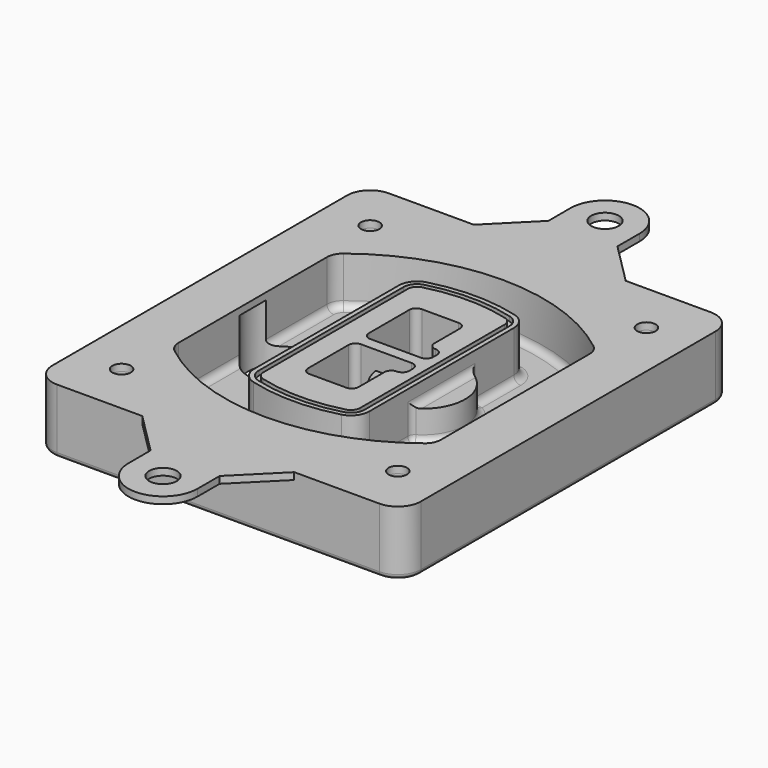
from build123d import *

# Parameters (mm, degrees)
F0_R      = 4
F1_DEPTH  = 25
F2_DEPTH  = 3
F3_DEPTH  = 18
F5_DEPTH  = 21
F6_DEPTH  = 2
F8_DEPTH  = 20
F9_DEPTH  = 16
F10_DEPTH = 25
F7_R      = 6
F7_R_2    = 4
F11_DEPTH = 6
F13_DEPTH = 9
F14_R     = 3
F15_R     = 2
F16_R     = 6
F16_R_2   = 4
F17_DEPTH = 3


with BuildPart() as f1:
    # F0 (on Top) → F1 (new body)
    with BuildSketch(Plane.XY):
        with BuildLine():
            ThreePointArc((-80, -80), (-77.0710678119, -87.0710678119), (-70, -90))
            Line((-70, -90), (70, -90))
            ThreePointArc((70, -90), (77.0710678119, -87.0710678119), (80, -80))
            Line((80, -80), (80, 80))
            ThreePointArc((80, 80), (77.0710678119, 87.0710678119), (70, 90))
            Line((70, 90), (-70, 90))
            ThreePointArc((-70, 90), (-77.0710678119, 87.0710678119), (-80, 80))
            Line((-80, 80), (-80, -80))
        make_face()
        with Locations((-60, -67.5)):
            Circle(F0_R, mode=Mode.SUBTRACT)
        with Locations((60, -67.5)):
            Circle(F0_R, mode=Mode.SUBTRACT)
        with Locations((-60, 67.5)):
            Circle(F0_R, mode=Mode.SUBTRACT)
        with BuildLine():
            ThreePointArc((-64, 40.2934422872), (-62.5820384798, 46.4328484224), (-58.6153846154, 51.3286200352))
            ThreePointArc((-58.6153846154, 51.3286200352), (0, 71.5), (58.6153846154, 51.3286200352))
            ThreePointArc((58.6153846154, 51.3286200352), (62.5820384798, 46.4328484224), (64, 40.2934422872))
            Line((64, 40.2934422872), (64, -40.2934422872))
            ThreePointArc((64, -40.2934422872), (62.5820384798, -46.4328484224), (58.6153846154, -51.3286200352))
            ThreePointArc((58.6153846154, -51.3286200352), (0, -71.5), (-58.6153846154, -51.3286200352))
            ThreePointArc((-58.6153846154, -51.3286200352), (-62.5820384798, -46.4328484224), (-64, -40.2934422872))
            Line((-64, -40.2934422872), (-64, 40.2934422872))
        make_face(mode=Mode.SUBTRACT)
        with Locations((60, 67.5)):
            Circle(F0_R, mode=Mode.SUBTRACT)
        with BuildLine():
            ThreePointArc((58.6153846154, 51.3286200352), (0, 71.5), (-58.6153846154, 51.3286200352))
            ThreePointArc((-58.6153846154, 51.3286200352), (-62.5820384798, 46.4328484224), (-64, 40.2934422872))
            Line((-64, 40.2934422872), (-64, -40.2934422872))
            ThreePointArc((-64, -40.2934422872), (-62.5820384798, -46.4328484224), (-58.6153846154, -51.3286200352))
            ThreePointArc((-58.6153846154, -51.3286200352), (0, -71.5), (58.6153846154, -51.3286200352))
            ThreePointArc((58.6153846154, -51.3286200352), (62.5820384798, -46.4328484224), (64, -40.2934422872))
            Line((64, -40.2934422872), (64, 40.2934422872))
            ThreePointArc((64, 40.2934422872), (62.5820384798, 46.4328484224), (58.6153846154, 51.3286200352))
        make_face()
        with BuildLine():
            Line((-60, -40.2934422872), (-60, 40.2934422872))
            ThreePointArc((-60, 40.2934422872), (-58.9871703427, 44.6787323838), (-56.1538461538, 48.1757121072))
            ThreePointArc((-56.1538461538, 48.1757121072), (0, 67.5), (56.1538461538, 48.1757121072))
            ThreePointArc((56.1538461538, 48.1757121072), (58.9871703427, 44.6787323838), (60, 40.2934422872))
            Line((60, 40.2934422872), (60, -40.2934422872))
            ThreePointArc((60, -40.2934422872), (58.9871703427, -44.6787323838), (56.1538461538, -48.1757121072))
            ThreePointArc((56.1538461538, -48.1757121072), (0, -67.5), (-56.1538461538, -48.1757121072))
            ThreePointArc((-56.1538461538, -48.1757121072), (-58.9871703427, -44.6787323838), (-60, -40.2934422872))
        make_face(mode=Mode.SUBTRACT)
        with BuildLine():
            ThreePointArc((-56.1538461538, 48.1757121072), (-58.9871703427, 44.6787323838), (-60, 40.2934422872))
            Line((-60, 40.2934422872), (-60, -40.2934422872))
            ThreePointArc((-60, -40.2934422872), (-58.9871703427, -44.6787323838), (-56.1538461538, -48.1757121072))
            ThreePointArc((-56.1538461538, -48.1757121072), (0, -67.5), (56.1538461538, -48.1757121072))
            ThreePointArc((56.1538461538, -48.1757121072), (58.9871703427, -44.6787323838), (60, -40.2934422872))
            Line((60, -40.2934422872), (60, 40.2934422872))
            ThreePointArc((60, 40.2934422872), (58.9871703427, 44.6787323838), (56.1538461538, 48.1757121072))
            ThreePointArc((56.1538461538, 48.1757121072), (0, 67.5), (-56.1538461538, 48.1757121072))
        make_face()
        with BuildLine():
            ThreePointArc((54.3076923077, 45.8110311612), (56.2910192399, 43.3631453548), (57, 40.2934422872))
            Line((57, 40.2934422872), (57, -40.2934422872))
            ThreePointArc((57, -40.2934422872), (56.2910192399, -43.3631453548), (54.3076923077, -45.8110311612))
            ThreePointArc((54.3076923077, -45.8110311612), (0, -64.5), (-54.3076923077, -45.8110311612))
            ThreePointArc((-54.3076923077, -45.8110311612), (-56.2910192399, -43.3631453548), (-57, -40.2934422872))
            Line((-57, -40.2934422872), (-57, 40.2934422872))
            ThreePointArc((-57, 40.2934422872), (-56.2910192399, 43.3631453548), (-54.3076923077, 45.8110311612))
            ThreePointArc((-54.3076923077, 45.8110311612), (0, 64.5), (54.3076923077, 45.8110311612))
        make_face(mode=Mode.SUBTRACT)
        with BuildLine():
            Line((57, -40.2934422872), (57, 40.2934422872))
            ThreePointArc((57, 40.2934422872), (56.2910192399, 43.3631453548), (54.3076923077, 45.8110311612))
            ThreePointArc((54.3076923077, 45.8110311612), (0, 64.5), (-54.3076923077, 45.8110311612))
            ThreePointArc((-54.3076923077, 45.8110311612), (-56.2910192399, 43.3631453548), (-57, 40.2934422872))
            Line((-57, 40.2934422872), (-57, -40.2934422872))
            ThreePointArc((-57, -40.2934422872), (-56.2910192399, -43.3631453548), (-54.3076923077, -45.8110311612))
            ThreePointArc((-54.3076923077, -45.8110311612), (0, -64.5), (54.3076923077, -45.8110311612))
            ThreePointArc((54.3076923077, -45.8110311612), (56.2910192399, -43.3631453548), (57, -40.2934422872))
        make_face()
    extrude(amount=-F1_DEPTH)

    # F0 (on Top) → F2 (join)
    with BuildSketch(Plane.XY):
        with BuildLine():
            ThreePointArc((-56.1538461538, 48.1757121072), (-58.9871703427, 44.6787323838), (-60, 40.2934422872))
            Line((-60, 40.2934422872), (-60, -40.2934422872))
            ThreePointArc((-60, -40.2934422872), (-58.9871703427, -44.6787323838), (-56.1538461538, -48.1757121072))
            ThreePointArc((-56.1538461538, -48.1757121072), (0, -67.5), (56.1538461538, -48.1757121072))
            ThreePointArc((56.1538461538, -48.1757121072), (58.9871703427, -44.6787323838), (60, -40.2934422872))
            Line((60, -40.2934422872), (60, 40.2934422872))
            ThreePointArc((60, 40.2934422872), (58.9871703427, 44.6787323838), (56.1538461538, 48.1757121072))
            ThreePointArc((56.1538461538, 48.1757121072), (0, 67.5), (-56.1538461538, 48.1757121072))
        make_face()
        with BuildLine():
            ThreePointArc((54.3076923077, 45.8110311612), (56.2910192399, 43.3631453548), (57, 40.2934422872))
            Line((57, 40.2934422872), (57, -40.2934422872))
            ThreePointArc((57, -40.2934422872), (56.2910192399, -43.3631453548), (54.3076923077, -45.8110311612))
            ThreePointArc((54.3076923077, -45.8110311612), (0, -64.5), (-54.3076923077, -45.8110311612))
            ThreePointArc((-54.3076923077, -45.8110311612), (-56.2910192399, -43.3631453548), (-57, -40.2934422872))
            Line((-57, -40.2934422872), (-57, 40.2934422872))
            ThreePointArc((-57, 40.2934422872), (-56.2910192399, 43.3631453548), (-54.3076923077, 45.8110311612))
            ThreePointArc((-54.3076923077, 45.8110311612), (0, 64.5), (54.3076923077, 45.8110311612))
        make_face(mode=Mode.SUBTRACT)
    extrude(amount=F2_DEPTH)

    # F0 (on Top) → F3 (cut)
    with BuildSketch(Plane.XY):
        with BuildLine():
            Line((57, -40.2934422872), (57, 40.2934422872))
            ThreePointArc((57, 40.2934422872), (56.2910192399, 43.3631453548), (54.3076923077, 45.8110311612))
            ThreePointArc((54.3076923077, 45.8110311612), (0, 64.5), (-54.3076923077, 45.8110311612))
            ThreePointArc((-54.3076923077, 45.8110311612), (-56.2910192399, 43.3631453548), (-57, 40.2934422872))
            Line((-57, 40.2934422872), (-57, -40.2934422872))
            ThreePointArc((-57, -40.2934422872), (-56.2910192399, -43.3631453548), (-54.3076923077, -45.8110311612))
            ThreePointArc((-54.3076923077, -45.8110311612), (0, -64.5), (54.3076923077, -45.8110311612))
            ThreePointArc((54.3076923077, -45.8110311612), (56.2910192399, -43.3631453548), (57, -40.2934422872))
        make_face()
    extrude(amount=-F3_DEPTH, mode=Mode.SUBTRACT)

    # F4 (on face) → F5 (join, through all)
    with BuildSketch(Plane.XY.offset(3)):
        with BuildLine():
            ThreePointArc((-25, -39.2465276821), (-23.3511545998, -44.1109737193), (-19.0842911877, -46.9702398883))
            ThreePointArc((-19.0842911877, -46.9702398883), (0, -49.5), (19.0842911877, -46.9702398883))
            ThreePointArc((19.0842911877, -46.9702398883), (23.3511545998, -44.1109737193), (25, -39.2465276821))
            Line((25, -39.2465276821), (25, 39.2465276821))
            ThreePointArc((25, 39.2465276821), (23.3511545998, 44.1109737193), (19.0842911877, 46.9702398883))
            ThreePointArc((19.0842911877, 46.9702398883), (0, 49.5), (-19.0842911877, 46.9702398883))
            ThreePointArc((-19.0842911877, 46.9702398883), (-23.3511545998, 44.1109737193), (-25, 39.2465276821))
            Line((-25, 39.2465276821), (-25, -39.2465276821))
        make_face()
        with BuildLine():
            ThreePointArc((18.5632183908, 45.0393118368), (21.7633659499, 42.89486221), (23, 39.2465276821))
            Line((23, 39.2465276821), (23, -39.2465276821))
            ThreePointArc((23, -39.2465276821), (21.7633659499, -42.89486221), (18.5632183908, -45.0393118368))
            ThreePointArc((18.5632183908, -45.0393118368), (0, -47.5), (-18.5632183908, -45.0393118368))
            ThreePointArc((-18.5632183908, -45.0393118368), (-21.7633659499, -42.89486221), (-23, -39.2465276821))
            Line((-23, -39.2465276821), (-23, 39.2465276821))
            ThreePointArc((-23, 39.2465276821), (-21.7633659499, 42.89486221), (-18.5632183908, 45.0393118368))
            ThreePointArc((-18.5632183908, 45.0393118368), (0, 47.5), (18.5632183908, 45.0393118368))
        make_face(mode=Mode.SUBTRACT)
        with BuildLine():
            Line((23, -39.2465276821), (23, 39.2465276821))
            ThreePointArc((23, 39.2465276821), (21.7633659499, 42.89486221), (18.5632183908, 45.0393118368))
            ThreePointArc((18.5632183908, 45.0393118368), (0, 47.5), (-18.5632183908, 45.0393118368))
            ThreePointArc((-18.5632183908, 45.0393118368), (-21.7633659499, 42.89486221), (-23, 39.2465276821))
            Line((-23, 39.2465276821), (-23, -39.2465276821))
            ThreePointArc((-23, -39.2465276821), (-21.7633659499, -42.89486221), (-18.5632183908, -45.0393118368))
            ThreePointArc((-18.5632183908, -45.0393118368), (0, -47.5), (18.5632183908, -45.0393118368))
            ThreePointArc((18.5632183908, -45.0393118368), (21.7633659499, -42.89486221), (23, -39.2465276821))
        make_face()
        with BuildLine():
            ThreePointArc((18.0421455939, 43.1083837852), (20.1755772999, 41.6787507007), (21, 39.2465276821))
            Line((21, 39.2465276821), (21, -39.2465276821))
            ThreePointArc((21, -39.2465276821), (20.1755772999, -41.6787507007), (18.0421455939, -43.1083837852))
            ThreePointArc((18.0421455939, -43.1083837852), (0, -45.5), (-18.0421455939, -43.1083837852))
            ThreePointArc((-18.0421455939, -43.1083837852), (-20.1755772999, -41.6787507007), (-21, -39.2465276821))
            Line((-21, -39.2465276821), (-21, 39.2465276821))
            ThreePointArc((-21, 39.2465276821), (-20.1755772999, 41.6787507007), (-18.0421455939, 43.1083837852))
            ThreePointArc((-18.0421455939, 43.1083837852), (0, 45.5), (18.0421455939, 43.1083837852))
        make_face(mode=Mode.SUBTRACT)
        with BuildLine():
            Line((21, -39.2465276821), (21, 39.2465276821))
            ThreePointArc((21, 39.2465276821), (20.1755772999, 41.6787507007), (18.0421455939, 43.1083837852))
            ThreePointArc((18.0421455939, 43.1083837852), (0, 45.5), (-18.0421455939, 43.1083837852))
            ThreePointArc((-18.0421455939, 43.1083837852), (-20.1755772999, 41.6787507007), (-21, 39.2465276821))
            Line((-21, 39.2465276821), (-21, -39.2465276821))
            ThreePointArc((-21, -39.2465276821), (-20.1755772999, -41.6787507007), (-18.0421455939, -43.1083837852))
            ThreePointArc((-18.0421455939, -43.1083837852), (0, -45.5), (18.0421455939, -43.1083837852))
            ThreePointArc((18.0421455939, -43.1083837852), (20.1755772999, -41.6787507007), (21, -39.2465276821))
        make_face()
        with BuildLine():
            Line((-8, -2.5), (14, -2.5))
            ThreePointArc((14, -2.5), (16.1213203436, -3.3786796564), (17, -5.5))
            Line((17, -5.5), (17, -7.5))
            ThreePointArc((17, -7.5), (16.1213203436, -9.6213203436), (14, -10.5))
            ThreePointArc((14, -10.5), (11.8786796564, -11.3786796564), (11, -13.5))
            Line((11, -13.5), (11, -27.5))
            ThreePointArc((11, -27.5), (10.1213203436, -29.6213203436), (8, -30.5))
            Line((8, -30.5), (-8, -30.5))
            ThreePointArc((-8, -30.5), (-10.1213203436, -29.6213203436), (-11, -27.5))
            Line((-11, -27.5), (-11, -5.5))
            ThreePointArc((-11, -5.5), (-10.1213203436, -3.3786796564), (-8, -2.5))
        make_face(mode=Mode.SUBTRACT)
        with BuildLine():
            ThreePointArc((-8, 2.5), (-10.1213203436, 3.3786796564), (-11, 5.5))
            Line((-11, 5.5), (-11, 27.5))
            ThreePointArc((-11, 27.5), (-10.1213203436, 29.6213203436), (-8, 30.5))
            Line((-8, 30.5), (8, 30.5))
            ThreePointArc((8, 30.5), (10.1213203436, 29.6213203436), (11, 27.5))
            Line((11, 27.5), (11, 13.5))
            ThreePointArc((11, 13.5), (11.8786796564, 11.3786796564), (14, 10.5))
            ThreePointArc((14, 10.5), (16.1213203436, 9.6213203436), (17, 7.5))
            Line((17, 7.5), (17, 5.5))
            ThreePointArc((17, 5.5), (16.1213203436, 3.3786796564), (14, 2.5))
            Line((14, 2.5), (-8, 2.5))
        make_face(mode=Mode.SUBTRACT)
    extrude(amount=-F5_DEPTH)

    # F4 (on face) → F6 (cut)
    with BuildSketch(Plane.XY.offset(3)):
        with BuildLine():
            Line((23, -39.2465276821), (23, 39.2465276821))
            ThreePointArc((23, 39.2465276821), (21.7633659499, 42.89486221), (18.5632183908, 45.0393118368))
            ThreePointArc((18.5632183908, 45.0393118368), (0, 47.5), (-18.5632183908, 45.0393118368))
            ThreePointArc((-18.5632183908, 45.0393118368), (-21.7633659499, 42.89486221), (-23, 39.2465276821))
            Line((-23, 39.2465276821), (-23, -39.2465276821))
            ThreePointArc((-23, -39.2465276821), (-21.7633659499, -42.89486221), (-18.5632183908, -45.0393118368))
            ThreePointArc((-18.5632183908, -45.0393118368), (0, -47.5), (18.5632183908, -45.0393118368))
            ThreePointArc((18.5632183908, -45.0393118368), (21.7633659499, -42.89486221), (23, -39.2465276821))
        make_face()
        with BuildLine():
            ThreePointArc((18.0421455939, 43.1083837852), (20.1755772999, 41.6787507007), (21, 39.2465276821))
            Line((21, 39.2465276821), (21, -39.2465276821))
            ThreePointArc((21, -39.2465276821), (20.1755772999, -41.6787507007), (18.0421455939, -43.1083837852))
            ThreePointArc((18.0421455939, -43.1083837852), (0, -45.5), (-18.0421455939, -43.1083837852))
            ThreePointArc((-18.0421455939, -43.1083837852), (-20.1755772999, -41.6787507007), (-21, -39.2465276821))
            Line((-21, -39.2465276821), (-21, 39.2465276821))
            ThreePointArc((-21, 39.2465276821), (-20.1755772999, 41.6787507007), (-18.0421455939, 43.1083837852))
            ThreePointArc((-18.0421455939, 43.1083837852), (0, 45.5), (18.0421455939, 43.1083837852))
        make_face(mode=Mode.SUBTRACT)
    extrude(amount=-F6_DEPTH, mode=Mode.SUBTRACT)

    # F7 (on face) → F8 (join)
    with BuildSketch(Plane(origin=(0, 0, -25), x_dir=(1, 0, 0), z_dir=(0, 0, -1))):
        with BuildLine():
            ThreePointArc((3.28842436, 0), (16.7567035675, 13.4682792075), (30.224982775, 0))
            Line((30.224982775, 0), (35.224982775, 0))
            ThreePointArc((35.224982775, 0), (16.7567035675, 18.4682792075), (-1.71157564, 0))
            Line((-1.71157564, 0), (3.28842436, 0))
        make_face()
        with BuildLine():
            Line((3.28842436, 0), (30.224982775, 0))
            ThreePointArc((30.224982775, 0), (16.7567035675, 13.4682792075), (3.28842436, 0))
        make_face()
        with BuildLine():
            ThreePointArc((3.28842436, 0), (16.7567035675, -13.4682792075), (30.224982775, 0))
            Line((30.224982775, 0), (3.28842436, 0))
        make_face()
        with BuildLine():
            Line((35.224982775, 0), (30.224982775, 0))
            ThreePointArc((30.224982775, 0), (16.7567035675, -13.4682792075), (3.28842436, 0))
            Line((3.28842436, 0), (-1.71157564, 0))
            ThreePointArc((-1.71157564, 0), (16.7567035675, -18.4682792075), (35.224982775, 0))
        make_face()
    extrude(amount=-F8_DEPTH)

    # F7 (on face) → F9 (cut)
    with BuildSketch(Plane(origin=(0, 0, -25), x_dir=(1, 0, 0), z_dir=(0, 0, -1))):
        with BuildLine():
            Line((3.28842436, 0), (30.224982775, 0))
            ThreePointArc((30.224982775, 0), (16.7567035675, 13.4682792075), (3.28842436, 0))
        make_face()
        with BuildLine():
            ThreePointArc((3.28842436, 0), (16.7567035675, -13.4682792075), (30.224982775, 0))
            Line((30.224982775, 0), (3.28842436, 0))
        make_face()
    extrude(amount=-F9_DEPTH, mode=Mode.SUBTRACT)

    # F7 (on face) → F10 (cut)
    with BuildSketch(Plane(origin=(0, 0, -25), x_dir=(1, 0, 0), z_dir=(0, 0, -1))):
        with BuildLine():
            Line((-59.0318229325, 0), (-32.0952645175, 0))
            ThreePointArc((-32.0952645175, 0), (-45.563543725, 13.4682792075), (-59.0318229325, 0))
        make_face()
        with BuildLine():
            ThreePointArc((-59.0318229325, 0), (-45.563543725, -13.4682792075), (-32.0952645175, 0))
            Line((-32.0952645175, 0), (-59.0318229325, 0))
        make_face()
    extrude(amount=-F10_DEPTH, mode=Mode.SUBTRACT)

    # F7 (on face) → F11 (cut)
    with BuildSketch(Plane(origin=(0, 0, -25), x_dir=(1, 0, 0), z_dir=(0, 0, -1))):
        with Locations((60, -67.5)):
            Circle(F7_R)
        with Locations((60, -67.5)):
            Circle(F7_R_2, mode=Mode.SUBTRACT)
        with Locations((60, -67.5)):
            Circle(F7_R)
        with Locations((60, -67.5)):
            Circle(F7_R_2, mode=Mode.SUBTRACT)
        with Locations((-60, -67.5)):
            Circle(F7_R)
        with Locations((-60, -67.5)):
            Circle(F7_R_2, mode=Mode.SUBTRACT)
        with Locations((-60, -67.5)):
            Circle(F7_R)
        with Locations((-60, -67.5)):
            Circle(F7_R_2, mode=Mode.SUBTRACT)
        with Locations((-60, 67.5)):
            Circle(F7_R)
        with Locations((-60, 67.5)):
            Circle(F7_R_2, mode=Mode.SUBTRACT)
        with Locations((-60, 67.5)):
            Circle(F7_R)
        with Locations((-60, 67.5)):
            Circle(F7_R_2, mode=Mode.SUBTRACT)
        with Locations((60, 67.5)):
            Circle(F7_R)
        with Locations((60, 67.5)):
            Circle(F7_R_2, mode=Mode.SUBTRACT)
        with Locations((60, 67.5)):
            Circle(F7_R)
        with Locations((60, 67.5)):
            Circle(F7_R_2, mode=Mode.SUBTRACT)
    extrude(amount=-F11_DEPTH, mode=Mode.SUBTRACT)

    # F12 (on face) → F13 (cut, through all)
    with BuildSketch(Plane(origin=(0, 0, -9), x_dir=(1, 0, 0), z_dir=(0, 0, -1))):
        with BuildLine():
            Line((11, 13.5), (11, 17.5481537753))
            ThreePointArc((11, 17.5481537753), (2.5696536419, 11.8239143813), (-1.5415842455, 2.5))
            Line((-1.5415842455, 2.5), (3.5224848595, 2.5))
            ThreePointArc((3.5224848595, 2.5), (6.1857188154, 8.3455872281), (11.2536447004, 12.2927168648))
            ThreePointArc((11.2536447004, 12.2927168648), (11.0640958889, 12.8831798879), (11, 13.5))
        make_face()
        with BuildLine():
            ThreePointArc((11.2536447004, -12.2927168648), (6.1857188154, -8.3455872281), (3.5224848595, -2.5))
            Line((3.5224848595, -2.5), (-1.5415842455, -2.5))
            ThreePointArc((-1.5415842455, -2.5), (2.5696536419, -11.8239143813), (11, -17.5481537753))
            Line((11, -17.5481537753), (11, -13.5))
            ThreePointArc((11, -13.5), (11.0640958889, -12.8831798879), (11.2536447004, -12.2927168648))
        make_face()
        with BuildLine():
            ThreePointArc((11.2536447004, 12.2927168648), (6.1857188154, 8.3455872281), (3.5224848595, 2.5))
            Line((3.5224848595, 2.5), (14, 2.5))
            ThreePointArc((14, 2.5), (16.1213203436, 3.3786796564), (17, 5.5))
            Line((17, 5.5), (17, 7.5))
            ThreePointArc((17, 7.5), (16.1213203436, 9.6213203436), (14, 10.5))
            ThreePointArc((14, 10.5), (12.3601599782, 10.9878446101), (11.2536447004, 12.2927168648))
        make_face()
        with BuildLine():
            Line((14, -2.5), (3.5224848595, -2.5))
            ThreePointArc((3.5224848595, -2.5), (6.1857188154, -8.3455872281), (11.2536447004, -12.2927168648))
            ThreePointArc((11.2536447004, -12.2927168648), (12.3601599782, -10.9878446101), (14, -10.5))
            ThreePointArc((14, -10.5), (16.1213203436, -9.6213203436), (17, -7.5))
            Line((17, -7.5), (17, -5.5))
            ThreePointArc((17, -5.5), (16.1213203436, -3.3786796564), (14, -2.5))
        make_face()
    extrude(amount=F13_DEPTH, mode=Mode.SUBTRACT)

    # F14
    f14_edges = [f1.edges().sort_by_distance(p)[0] for p in [
        (-57, -23.703476, -18),
        (-57, 23.703476, -18),
        (25, 0, -5),
        (25, 16.526506, -11.5),
        (25, -16.526506, -11.5),
        (25, -27.886517, -18),
        (35.224983, 0, -18),
    ]]
    fillet(f14_edges, radius=F14_R)

    # F15
    f15_edges = [f1.edges().sort_by_distance(p)[0] for p in [
        (0, -90, -25),
    ]]
    fillet(f15_edges, radius=F15_R)

    # F16 (on face) → F17 (join, through all)
    with BuildSketch(Plane.XY):
        with BuildLine():
            Line((-15, 108), (-33, 90))
            Line((-33, 90), (33, 90))
            Line((33, 90), (15, 108))
            Line((15, 108), (15, 120))
            ThreePointArc((15, 120), (0, 135), (-15, 120))
            Line((-15, 120), (-15, 108))
        make_face()
        with Locations((0, 120)):
            Circle(F16_R, mode=Mode.SUBTRACT)
        with BuildLine():
            Line((33, 90), (-33, 90))
            Line((-33, 90), (-70, 90))
            ThreePointArc((-70, 90), (-77.0710678119, 87.0710678119), (-80, 80))
            Line((-80, 80), (-80, -80))
            ThreePointArc((-80, -80), (-77.0710678119, -87.0710678119), (-70, -90))
            Line((-70, -90), (-33, -90))
            Line((-33, -90), (33, -90))
            Line((33, -90), (70, -90))
            ThreePointArc((70, -90), (77.0710678119, -87.0710678119), (80, -80))
            Line((80, -80), (80, 80))
            ThreePointArc((80, 80), (77.0710678119, 87.0710678119), (70, 90))
            Line((70, 90), (33, 90))
        make_face()
        with Locations((-60, -67.5)):
            Circle(F16_R_2, mode=Mode.SUBTRACT)
        with Locations((60, -67.5)):
            Circle(F16_R_2, mode=Mode.SUBTRACT)
        with Locations((-60, 67.5)):
            Circle(F16_R_2, mode=Mode.SUBTRACT)
        with BuildLine():
            ThreePointArc((-60, 40.2934422872), (-58.9871703427, 44.6787323838), (-56.1538461538, 48.1757121072))
            ThreePointArc((-56.1538461538, 48.1757121072), (0, 67.5), (56.1538461538, 48.1757121072))
            ThreePointArc((56.1538461538, 48.1757121072), (58.9871703427, 44.6787323838), (60, 40.2934422872))
            Line((60, 40.2934422872), (60, -40.2934422872))
            ThreePointArc((60, -40.2934422872), (58.9871703427, -44.6787323838), (56.1538461538, -48.1757121072))
            ThreePointArc((56.1538461538, -48.1757121072), (0, -67.5), (-56.1538461538, -48.1757121072))
            ThreePointArc((-56.1538461538, -48.1757121072), (-58.9871703427, -44.6787323838), (-60, -40.2934422872))
            Line((-60, -40.2934422872), (-60, 40.2934422872))
        make_face(mode=Mode.SUBTRACT)
        with Locations((60, 67.5)):
            Circle(F16_R_2, mode=Mode.SUBTRACT)
        with BuildLine():
            Line((33, -90), (-33, -90))
            Line((-33, -90), (-15, -108))
            Line((-15, -108), (-15, -120))
            ThreePointArc((-15, -120), (0, -135), (15, -120))
            Line((15, -120), (15, -108))
            Line((15, -108), (33, -90))
        make_face()
        with Locations((0, -120)):
            Circle(F16_R, mode=Mode.SUBTRACT)
    extrude(amount=F17_DEPTH)


solid = f1.part
